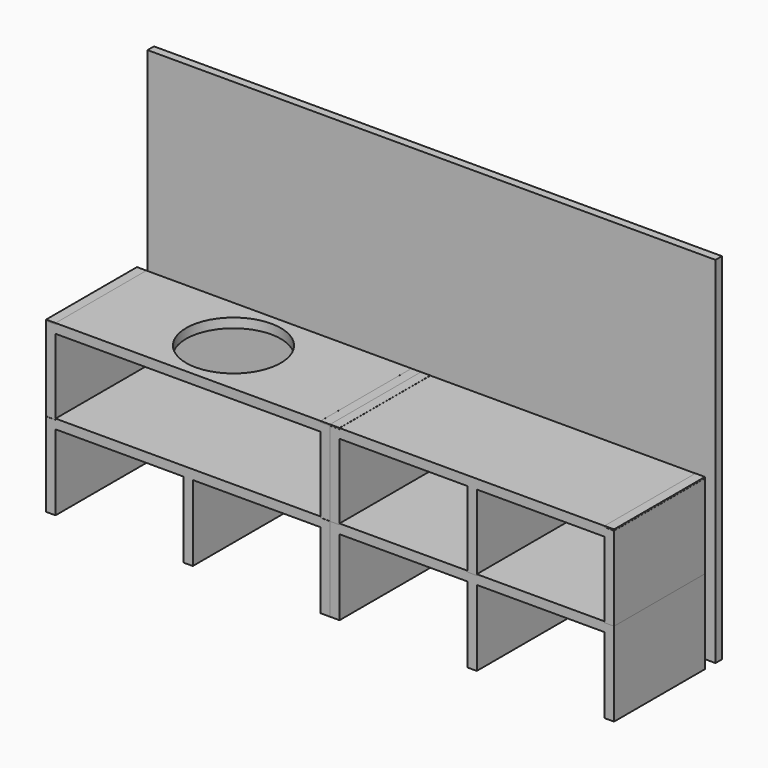
from build123d import *

# Parameters (mm, degrees)
F1_DEPTH  = 609.6
F3_DEPTH  = 609.6
F7_D      = 508
F7_DEPTH  = 50.8
F8_W      = 50.8
F8_H      = 6.35
F9_DEPTH  = 609.6
F21_W     = 43.18
F21_H     = 1905
F22_DEPTH = 3048


with BuildPart() as f1:
    # F0 (on Front) → F1 (new body)
    with BuildSketch(Plane.XZ):
        Polygon((-50.8, 241.642614), (-50.8, -209.207386), (0, -209.207386), (0, 197.192614), (685.8, 197.192614), (685.8, -209.207386), (736.6, -209.207386), (736.6, 197.192614), (1422.4, 197.192614), (1422.4, -209.207386), (1473.2, -209.207386), (1473.2, 241.642614), (1422.4, 241.642614), (1422.4, 247.992614), (0, 247.992614), (0, 241.642614), align=None)
    extrude(amount=-F1_DEPTH)


with BuildPart() as f3:
    # F2 (on face) → F3 (new body)
    with BuildSketch(Plane.XZ):
        Polygon((-50.8, 724.760552), (-50.8, 273.910552), (0, 273.910552), (0, 680.310552), (1422.4, 680.310552), (1422.4, 273.910552), (1473.2, 273.910552), (1473.2, 724.760552), (1422.4, 724.760552), (1422.4, 731.110552), (0, 731.110552), (0, 724.760552), align=None)
    extrude(amount=-F3_DEPTH)


with BuildPart() as f4_1:
    # F4: copy of F3
    add(f3.part.moved(Location((0, 0, -31.75))))

    # F7
    with Locations(Plane.XY.offset(699.360552)):
        with Locations((709.647298, 306.462109)):
            Hole(F7_D / 2, depth=F7_DEPTH)


with BuildPart() as f9:
    # F8 (on face) → F9 (new body)
    with BuildSketch(Plane.XZ):
        with Locations((-25.4, 724.088053)):
            Rectangle(F8_W, F8_H)
    extrude(amount=-F9_DEPTH)


with BuildPart() as f10_1:
    # F10: copy of F9
    add(f9.part.moved(Location((0, 0, -27.94))))


with BuildPart() as f12_1:
    # F12: copy of F10_1
    add(f10_1.part.moved(Location((1473.2, 254, 0))))


with BuildPart() as f13_1:
    # F13: copy of F1
    add(f1.part.moved(Location((1524, 0, 0))))


with BuildPart() as f14_1:
    # F14: copy of F13_1
    add(f13_1.part.moved(Location((0, 0, 450.85))))


with BuildPart() as f15_1:
    # F15: copy of F12_1
    add(f12_1.part.moved(Location((50.8, 0, 0))))


with BuildPart() as f16_1:
    # F16: copy of F12_1
    add(f12_1.part.moved(Location((1524, 0, 0))))


with BuildPart() as f18_1:
    # F18: copy of F10_1
    add(f10_1.part.moved(Location((1473.2, 0, 0))))


with BuildPart() as f19_1:
    # F19: copy of F18_1
    add(f18_1.part.moved(Location((50.8, 0, 0))))


with BuildPart() as f20_1:
    # F20: copy of F18_1
    add(f18_1.part.moved(Location((1524, 0, 0))))


with BuildPart() as f22:
    # F21 (on face) → F22 (new body)
    with BuildSketch(Plane.YZ.offset(2997.2)):
        with Locations((702.007001, 743.292614)):
            Rectangle(F21_W, F21_H)
    extrude(amount=-F22_DEPTH)


solid = Compound([f1.part, f4_1.part, f10_1.part, f13_1.part, f14_1.part, f18_1.part, f19_1.part, f20_1.part, f22.part])
